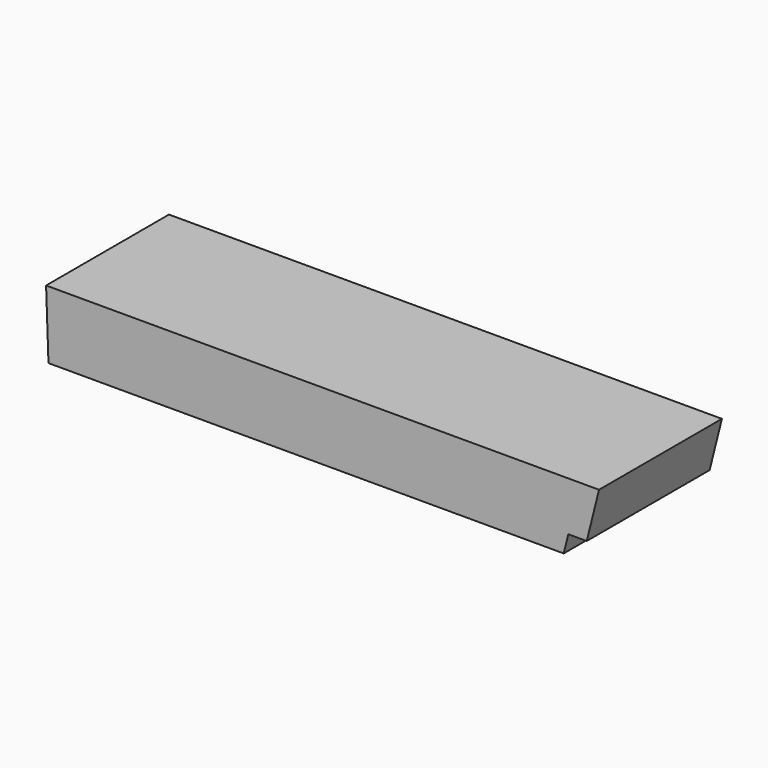
from build123d import *

# Parameters (mm, degrees)
F1_DEPTH = 15.875


with BuildPart() as f1:
    # F0 (on Front) → F1 (new body, symmetric)
    with BuildSketch(Plane.XZ):
        Polygon((107.454668, 3.81), (0, 0), (106.502168, 0), align=None)
        Polygon((-0.495332, 13.97), (0, 0), (107.454668, 3.81), (111.264668, 3.81), (113.804668, 13.97), align=None)
    extrude(amount=F1_DEPTH, both=True)


solid = f1.part
